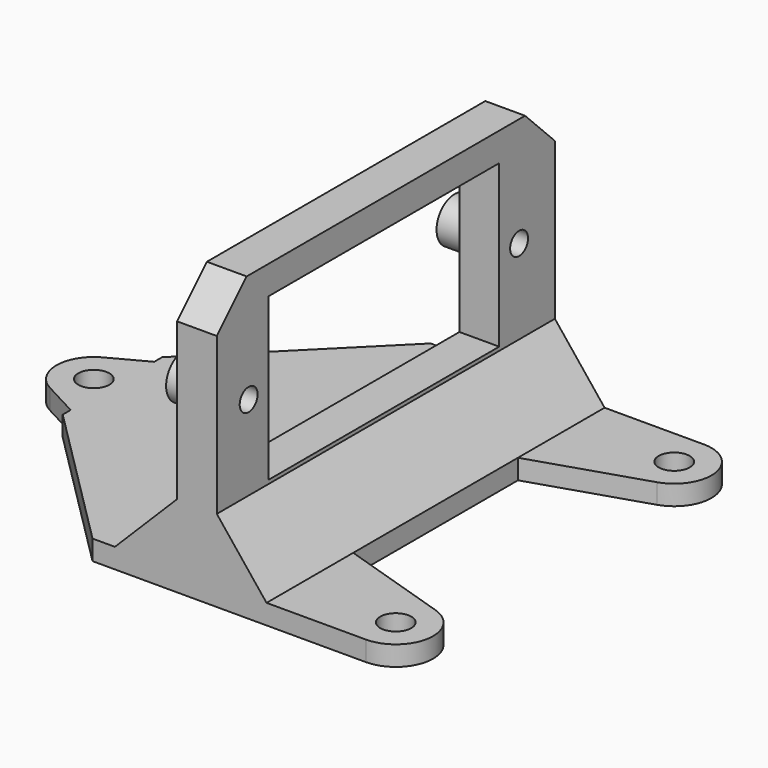
from build123d import *

# Parameters (mm, degrees)
PAD002_DEPTH    = 34
SKETCH003_R     = 0.9
POCKET001_DEPTH = 22.001
SKETCH005_W     = 13
SKETCH005_H     = 23.2
POCKET002_DEPTH = 22.001
SKETCH006_R     = 1.25
PAD003_DEPTH    = 1.6
SKETCH007_R     = 1.25
PAD004_DEPTH    = 1.6
SKETCH009_R     = 1.8
SKETCH009_R_2   = 1
PAD005_DEPTH    = 2
CHAMFER_SIZE    = 3
CHAMFER001_SIZE = 12


with BuildPart() as part:
    # Sketch004 → Pad002 (new body)
    with BuildSketch(Plane.XZ):
        Polygon((-22, 1.6), (-8.2, 1.6), (-3.2, 6.6), (-3.2, 22.2), (0, 22.2), (0, 6.6), (4, 1.6), (4, 0), (-3.601763, 0), (-22, 0), align=None)
    extrude(amount=PAD002_DEPTH)

    # Sketch003 → Pocket001 (cut, through all)
    with BuildSketch(Plane(origin=(0, 0, 0), x_dir=(0, 0, 1), z_dir=(1, 0, 0))):
        with Locations((13.4, 30.8)):
            Circle(SKETCH003_R)
        with Locations((13.4, 3.6)):
            Circle(SKETCH003_R)
    extrude(amount=-POCKET001_DEPTH, mode=Mode.SUBTRACT)

    # Sketch005 (on DatumPlane) → Pocket002 (cut, through all)
    with BuildSketch(Plane(origin=(0, 0, 0), x_dir=(0, 0, 1), z_dir=(1, 0, 0))):
        with Locations((13.4, 17.2)):
            Rectangle(SKETCH005_W, SKETCH005_H)
    extrude(amount=-POCKET002_DEPTH, mode=Mode.SUBTRACT)

    # Sketch006 → Pad003 (join)
    with BuildSketch(Plane.XY):
        with BuildLine():
            ThreePointArc((-24.911765, -14.352941), (-26.5, -17), (-24.911765, -19.647059))
            Line((-20.5, -22), (-24.911765, -19.647059))
            Line((-20.5, -12), (-20.5, -22))
            Line((-20.5, -12), (-24.911765, -14.352941))
        make_face()
        with Locations((-23.5, -17)):
            Circle(SKETCH006_R, mode=Mode.SUBTRACT)
    extrude(amount=PAD003_DEPTH)

    # Sketch007 → Pad004 (join)
    with BuildSketch(Plane.XY):
        with BuildLine():
            ThreePointArc((12, -34), (14.963938, -31.463756), (12.916362, -28.143379))
            Line((0, -24), (12.916362, -28.143379))
            Line((0, -34), (0, -24))
            Line((0, -34), (12, -34))
        make_face()
        with Locations((12, -31)):
            Circle(SKETCH007_R, mode=Mode.SUBTRACT)
        with BuildLine():
            ThreePointArc((12.916362, -5.856621), (14.96394, -2.536256), (12.000023, 0))
            Line((0, 0), (12.000023, 0))
            Line((0, 0), (0, -10))
            Line((0, -10), (12.916362, -5.856621))
        make_face()
        with Locations((12, -3)):
            Circle(SKETCH007_R, mode=Mode.SUBTRACT)
    extrude(amount=PAD004_DEPTH)

    # Sketch009 (on Face2 of Pad004) → Pad005 (join)
    with BuildSketch(Plane(origin=(-3.2, 0, 0), x_dir=(0, 0, -1), z_dir=(-1, 0, 0))):
        with Locations((-13.4, 30.8)):
            Circle(SKETCH009_R)
        with Locations((-13.4, 30.8)):
            Circle(SKETCH009_R_2, mode=Mode.SUBTRACT)
        with Locations((-13.4, 3.6)):
            Circle(SKETCH009_R)
        with Locations((-13.4, 3.6)):
            Circle(SKETCH009_R_2, mode=Mode.SUBTRACT)
    extrude(amount=PAD005_DEPTH)

    # Chamfer
    chamfer_edges = [part.edges().sort_by_distance(p)[0] for p in [
        (-1.6, -34, 22.2),
        (-1.6, 0, 22.2),
    ]]
    chamfer(chamfer_edges, length=CHAMFER_SIZE)

    # Chamfer001
    chamfer001_edges = [part.edges().sort_by_distance(p)[0] for p in [
        (-22, -34, 0.8),
        (-22, 0, 0.8),
    ]]
    chamfer(chamfer001_edges, length=CHAMFER001_SIZE)


with BuildPart() as part_1:
    # Body001 placement: moved
    add(part.part.moved(Location((3.5, 11.5, 4.5))))


solid = part_1.part
